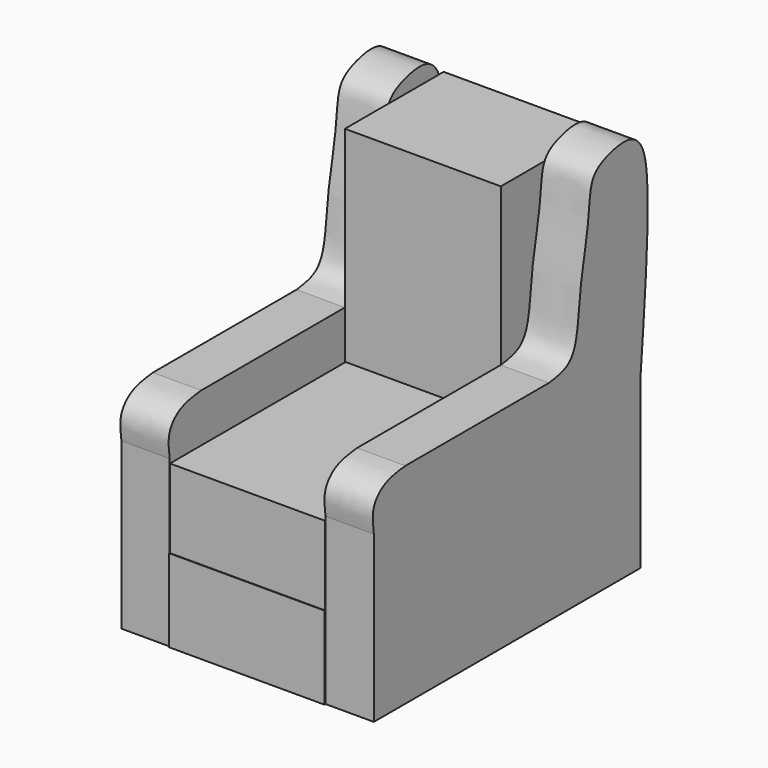
from build123d import *

# Parameters (mm, degrees)
F0_W      = 85.790194571
F0_H      = 42.5908714533
F1_DEPTH  = 12.446
F4_W      = 40.100261569
F4_H      = 88.5250978172
F5_DEPTH  = 21.336
F6_W      = 39.9622134864
F6_H      = 86.9070254266
F7_DEPTH  = 20.32
F8_W      = 40.1581972837
F8_H      = 31.7655205727
F9_DEPTH  = 52.832
F10_W     = 39.9622134864
F10_H     = 20.32
F11_DEPTH = 1.524


with BuildPart() as f1:
    # F0 (on Right) → F1 (new body)
    with BuildSketch(Plane.YZ):
        with BuildLine():
            add(Edge.make_bspline(
                [(-42.8950972855, 21.2954357266), (-43.2026130646, 23.4429030496), (-43.7973586419, 27.5961751085), (-39.3982548672, 31.9308816738), (-35.050246351, 32.4034685289), (-32.7544100583, 32.653003931)],
                knots=[0, 0, 0, 0, 0.3356867736, 0.6492292025, 1, 1, 1, 1], degree=3))
            Line((-42.8950972855, 21.2954357266), (42.8950972855, 21.2954357266))
            add(Edge.make_bspline(
                [(13.4871117771, 32.653003931), (15.9528122623, 32.9885431735), (20.8874975377, 33.6600685956), (22.9281107187, 41.1274908792), (23.4578516916, 49.7590309135), (24.8534879019, 56.7631325628), (26.4596082385, 65.2769325456), (26.7313125834, 73.0856987863), (30.5154405422, 76.2124638392), (37.1881548314, 77.9239590004), (41.7981016934, 76.8244445569), (46.9585052343, 69.2712327662), (44.6102747775, 41.5461731072), (42.8950972855, 21.2954357266)],
                knots=[0, 0, 0, 0, 0.0792274738, 0.1585604782, 0.2485882699, 0.3301268425, 0.4204415029, 0.5031043473, 0.567184067, 0.6457693958, 0.7078965634, 0.7866439223, 1, 1, 1, 1], degree=3))
            Line((13.4871117771, 32.653003931), (-32.7544100583, 32.653003931))
        make_face()
        Rectangle(F0_W, F0_H)
    extrude(amount=F1_DEPTH)


with BuildPart() as f3_1:
    # F3: instance of F1
    add(f1.part.mirror(Plane.YZ.offset(-20.066)))


with BuildPart() as f1_1:
    add(f1.part)

    # F4 (on Top) → F5 (join)
    with BuildSketch(Plane.XY):
        with Locations((-20.0501307845, 1.0874513537)):
            Rectangle(F4_W, F4_H)
    extrude(amount=-F5_DEPTH)

    # F6 (on Top) → F7 (join)
    with BuildSketch(Plane.XY):
        with Locations((-19.9811067432, 0.4151295871)):
            Rectangle(F6_W, F6_H)
    extrude(amount=F7_DEPTH)


with BuildPart() as f9:
    # F8 (on face) → F9 (new body)
    with BuildSketch(Plane.XY.offset(20.32)):
        with Locations((-20.0790986419, 29.4278264046)):
            Rectangle(F8_W, F8_H)
    extrude(amount=F9_DEPTH)


with BuildPart() as f11:
    # F10 (on face) → F11 (new body)
    with BuildSketch(Plane(origin=(0, 43.8686423004, 0), x_dir=(-1, 0, 0), z_dir=(0, 1, 0))):
        with Locations((19.9811067432, 10.16)):
            Rectangle(F10_W, F10_H)
    extrude(amount=F11_DEPTH)


solid = Compound([f3_1.part, f1_1.part, f9.part, f11.part])
